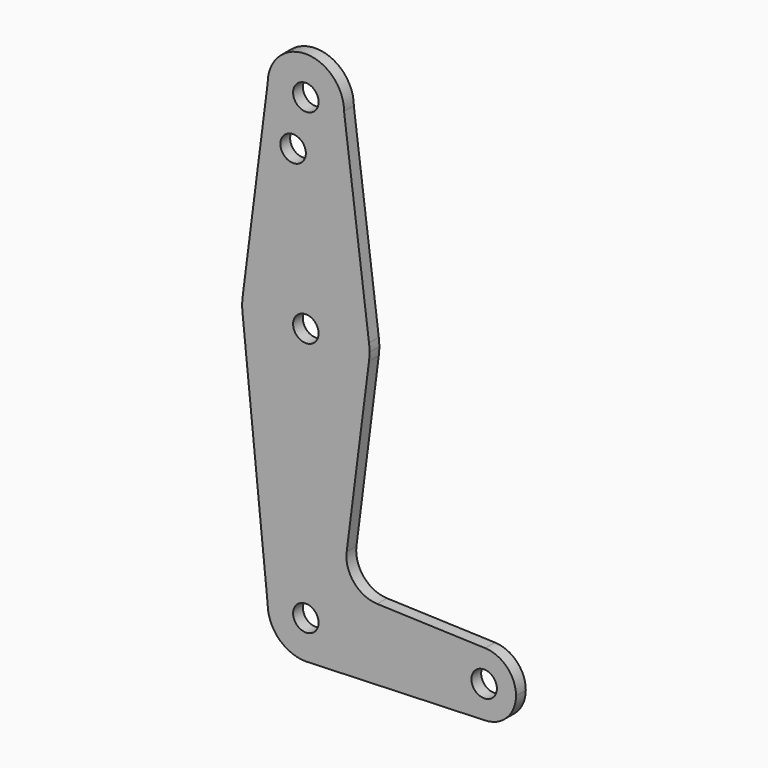
from build123d import *

# Parameters (mm, degrees)
F0_R     = 3.175
F1_DEPTH = 1.524


with BuildPart() as f1:
    # F0 (on Front) → F1 (new body, symmetric)
    with BuildSketch(Plane.XZ):
        with BuildLine():
            ThreePointArc((-2.38125, 41.577458), (5.832848, 43.269826), (9.525, 50.8))
            ThreePointArc((9.525, 50.8), (0, 60.325), (-9.525, 50.8))
            ThreePointArc((-9.525, 50.8), (-7.530174, 44.967152), (-2.38125, 41.577458))
        make_face()
        with Locations((0, 50.8)):
            Circle(F0_R, mode=Mode.SUBTRACT)
        with BuildLine():
            Line((15.747457, 2.008289), (9.525, 50.8))
            ThreePointArc((9.525, 50.8), (5.832848, 43.269826), (-2.38125, 41.577458))
            ThreePointArc((-2.38125, 41.577458), (-7.530174, 44.967152), (-9.525, 50.8))
            Line((-9.525, 50.8), (-15.747457, 2.008289))
            ThreePointArc((-15.747457, 2.008289), (0, 15.875), (15.747457, 2.008289))
        make_face()
        with BuildLine():
            ThreePointArc((0, 38.503278), (-5.685058, 36.558995), (-2.38125, 41.577458))
            ThreePointArc((-2.38125, 41.577458), (-0.664942, 40.44756), (0, 38.503278))
        make_face(mode=Mode.SUBTRACT)
        with BuildLine():
            ThreePointArc((15.875, 0), (15.843082, 1.006168), (15.747457, 2.008289))
            ThreePointArc((15.747457, 2.008289), (0, 15.875), (-15.747457, 2.008289))
            ThreePointArc((-15.747457, 2.008289), (-15.875, 0), (-15.747457, -2.008289))
            ThreePointArc((-15.747457, -2.008289), (0, -15.875), (15.747457, -2.008289))
            ThreePointArc((15.747457, -2.008289), (15.843082, -1.006168), (15.875, 0))
        make_face()
        Circle(F0_R, mode=Mode.SUBTRACT)
        with BuildLine():
            ThreePointArc((15.747457, -2.008289), (0, -15.875), (-15.747457, -2.008289))
            Line((-15.747457, -2.008289), (-9.525, -63.5))
            ThreePointArc((-9.525, -63.5), (0, -53.975), (9.525, -63.5))
            ThreePointArc((9.525, -63.5), (6.96982, -69.99209), (0.675187, -73.001039))
            Line((0.675187, -73.001039), (44.731685, -71.437583))
            ThreePointArc((44.731685, -71.437583), (36.50742, -63.5), (44.731685, -55.562417))
            Line((44.731685, -55.562417), (17.785491, -54.606163))
            ThreePointArc((17.785491, -54.606163), (12.008562, -51.808352), (10.18112, -45.655213))
            Line((10.18112, -45.655213), (15.747457, -2.008289))
        make_face()
        with BuildLine():
            ThreePointArc((9.525, -63.5), (0, -53.975), (-9.525, -63.5))
            ThreePointArc((-9.525, -63.5), (-6.735192, -70.235192), (0, -73.025))
            Line((0, -73.025), (0.675187, -73.001039))
            ThreePointArc((0.675187, -73.001039), (6.96982, -69.99209), (9.525, -63.5))
        make_face()
        with Locations((0, -63.5)):
            Circle(F0_R, mode=Mode.SUBTRACT)
        with BuildLine():
            Line((0.675187, -73.001039), (0, -73.025))
            ThreePointArc((0, -73.025), (0.337806, -73.019008), (0.675187, -73.001039))
        make_face()
        with BuildLine():
            ThreePointArc((52.39258, -63.5), (50.164975, -57.984238), (44.731685, -55.562417))
            ThreePointArc((44.731685, -55.562417), (36.50742, -63.5), (44.731685, -71.437583))
            ThreePointArc((44.731685, -71.437583), (50.164975, -69.015762), (52.39258, -63.5))
        make_face()
        with Locations((44.45, -63.5)):
            Circle(F0_R, mode=Mode.SUBTRACT)
    extrude(amount=F1_DEPTH, both=True)


solid = f1.part
